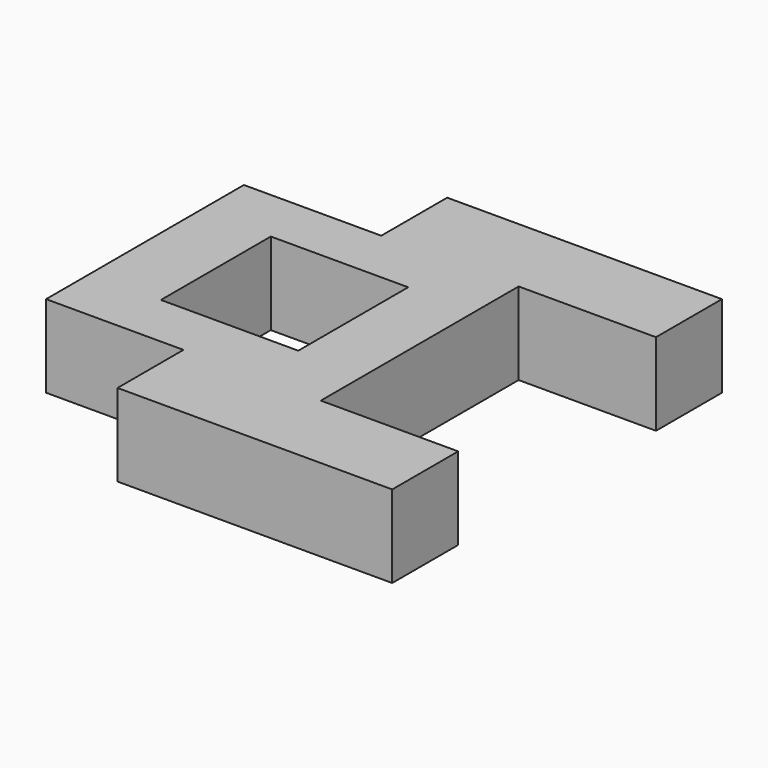
from build123d import *

# Parameters (mm, degrees)
F0_W     = 12.7
F0_H     = 7.62
F0_W_2   = 6.1468
F0_H_2   = 12.7
F1_DEPTH = 7.62
F2_R     = 25.4
F3_DEPTH = 25.4
F5_DEPTH = 25.4
F6_R     = 5.08


with BuildPart() as f1:
    # F0 (on Top) → F1 (new body)
    with BuildSketch(Plane.XY):
        Polygon((-69.044474, 45.180961), (-69.044474, 50.260961), (-81.744474, 50.260961), (-81.744474, 27.400961), (-69.044474, 27.400961), (-69.044474, 32.480961), (-75.191274, 32.480961), (-75.191274, 45.180961), align=None)
        Polygon((-56.344474, 57.880961), (-69.044474, 57.880961), (-69.044474, 50.260961), (-69.044474, 45.180961), (-62.491274, 45.180961), (-56.344474, 45.180961), (-56.344474, 50.260961), align=None)
        with Locations((-49.994474, 54.070961)):
            Rectangle(F0_W, F0_H)
        with Locations((-49.994474, 23.590961)):
            Rectangle(F0_W, F0_H)
        Polygon((-56.344474, 27.400961), (-56.344474, 32.480961), (-62.491274, 32.480961), (-69.044474, 32.480961), (-69.044474, 27.400961), (-69.044474, 19.780961), (-56.344474, 19.780961), align=None)
        with Locations((-59.417874, 38.830961)):
            Rectangle(F0_W_2, F0_H_2)
    extrude(amount=F1_DEPTH)


with BuildPart() as f3:
    # F2 (on Top) → F3 (new body)
    with BuildSketch(Plane.XY):
        with Locations((41.206498, 17.812403)):
            Circle(F2_R)
    extrude(amount=F3_DEPTH)


with BuildPart() as f5:
    # F4 (on Top) → F5 (new body)
    with BuildSketch(Plane.XY):
        Polygon((42.736534, 52.771983), (27.891826, 63.671286), (25.875106, 45.36574), align=None)
    extrude(amount=F5_DEPTH)

    # F6
    f6_edges = [f5.edges().sort_by_distance(p)[0] for p in [
        (35.31418, 58.221634, 25.4),
        (26.883466, 54.518513, 25.4),
        (34.30582, 49.068861, 25.4),
        (35.31418, 58.221634, 0),
        (26.883466, 54.518513, 0),
        (34.30582, 49.068861, 0),
    ]]
    fillet(f6_edges, radius=F6_R)


solid = f1.part
